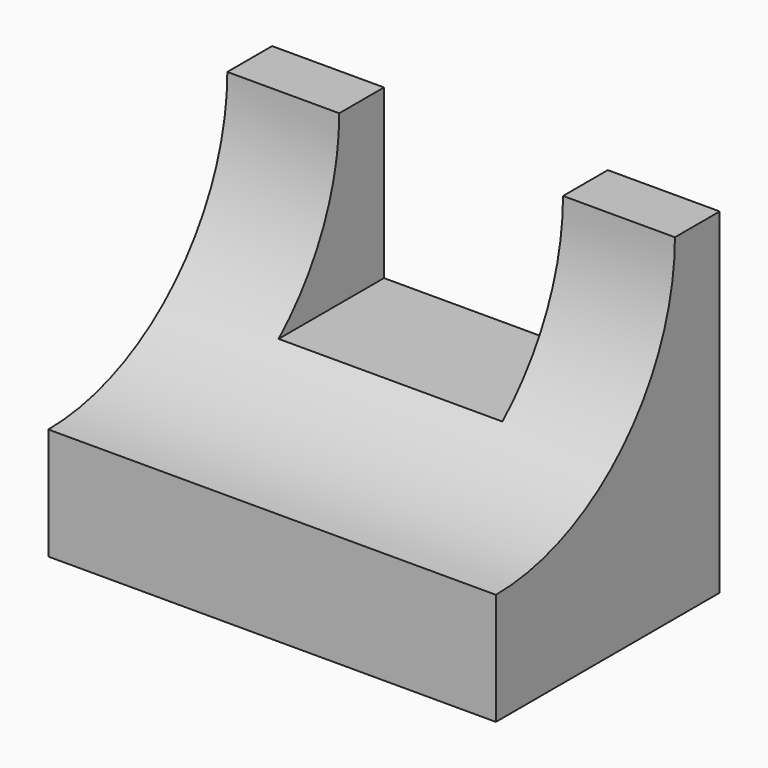
from build123d import *

# Parameters (mm, degrees)
F0_W     = 50.8
F0_H     = 38.1
F1_DEPTH = 31.75
F3_DEPTH = 50.801
F4_W     = 25.4
F4_H     = 19.05
F5_DEPTH = 31.751


with BuildPart() as f1:
    # F0 (on Front) → F1 (new body)
    with BuildSketch(Plane.XZ):
        with Locations((-13.166911, 19.05)):
            Rectangle(F0_W, F0_H)
    extrude(amount=F1_DEPTH)

    # F2 (on face) → F3 (cut, through all)
    with BuildSketch(Plane.YZ.offset(12.233089)):
        with BuildLine():
            ThreePointArc((-31.75, 12.7), (-13.789488, 20.139488), (-6.35, 38.1))
            Line((-6.35, 38.1), (-31.75, 38.1))
            Line((-31.75, 38.1), (-31.75, 12.7))
        make_face()
    extrude(amount=-F3_DEPTH, mode=Mode.SUBTRACT)

    # F4 (on face) → F5 (cut, through all)
    with BuildSketch(Plane(origin=(0, 0, 0), x_dir=(-1, 0, 0), z_dir=(0, 1, 0))):
        with Locations((13.166911, 28.575)):
            Rectangle(F4_W, F4_H)
    extrude(amount=-F5_DEPTH, mode=Mode.SUBTRACT)


solid = f1.part
